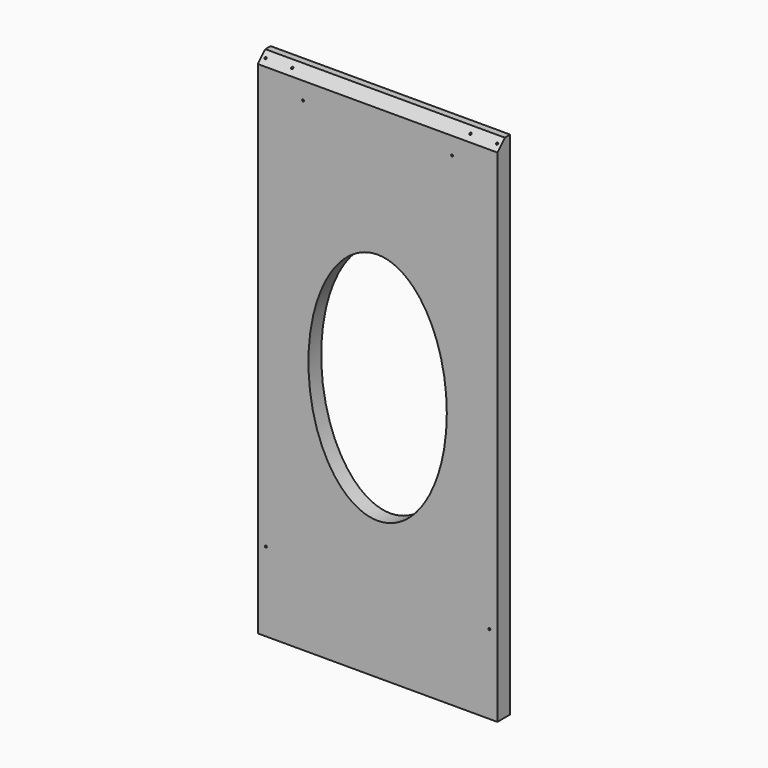
from build123d import *

# Parameters (mm, degrees)
F0_W           = 571.5
F0_H           = 1218.2094
F1_DEPTH       = 38.1
F2_SIZE2       = 22.225
F2_SIZE        = 22.225
F4_D           = 4.826
F7_D           = 4.826
F7_DEPTH       = 12.7
F7_TIP         = 1.4498766737
F7_ON_F6_D     = 4.826
F7_ON_F6_DEPTH = 12.7
F7_ON_F6_TIP   = 1.4498766737
F9_D           = 4.826
F9_DEPTH       = 12.7
F9_TIP         = 1.4498766737


with BuildPart() as f1:
    # F0 (on Front) → F1 (new body)
    with BuildSketch(Plane.XZ):
        with Locations((285.75, 609.1047)):
            Rectangle(F0_W, F0_H)
        with BuildLine():
            add(Edge.make_bspline(
                [(285.75, 888.5047), (-0.2115883296, 888.5047), (142.7692058352, 469.4047), (285.75, 50.3047), (428.7307941648, 469.4047), (571.7115883296, 888.5047), (285.75, 888.5047)],
                knots=[0, 0, 0, 2.0943951024, 2.0943951024, 4.1887902048, 4.1887902048, 6.2831853072, 6.2831853072, 6.2831853072], degree=2, weights=[1, 0.5, 1, 0.5, 1, 0.5, 1]))
        make_face(mode=Mode.SUBTRACT)
    extrude(amount=F1_DEPTH)

    # F2
    f2_edges = [f1.edges().sort_by_distance(p)[0] for p in [
        (285.75, -38.1, 1218.2094),
    ]]
    chamfer(f2_edges, length=F2_SIZE, length2=F2_SIZE2)

    # F4 (through all)
    with Locations(Plane(origin=(0, 0, 0), x_dir=(-1, 0, 0), z_dir=(0, 1, 0))):
        with Locations((-463.55, 1154.7094), (-107.95, 1154.7094)):
            Hole(F4_D / 2)

    # F7
    with Locations(Plane(origin=(0, -617.0422, 617.0422), x_dir=(1, 0, 0), z_dir=(0, -0.7071067812, 0.7071067812))):
        with Locations((9.525, 834.463359282), (73.025, 834.463359282), (498.475, 834.463359282), (561.975, 834.463359282)):
            Hole(F7_D / 2, depth=F7_DEPTH)
            with Locations((0, 0, -(F7_DEPTH + F7_TIP / 2))):  # 118° drill point
                Cone(0, F7_D / 2, F7_TIP, mode=Mode.SUBTRACT)

    # F7 on F6
    with Locations(Plane.XZ.offset(38.1)):
        with Locations((19.05, 188.722), (552.45, 188.722)):
            Hole(F7_ON_F6_D / 2, depth=F7_ON_F6_DEPTH)
            with Locations((0, 0, -(F7_ON_F6_DEPTH + F7_ON_F6_TIP / 2))):  # 118° drill point
                Cone(0, F7_ON_F6_D / 2, F7_ON_F6_TIP, mode=Mode.SUBTRACT)

    # F9
    with Locations(Plane(origin=(0, 0, 0), x_dir=(1, 0, 0), z_dir=(0, 0, -1))):
        with Locations((27.3812, 19.05), (544.1188, 19.05)):
            Hole(F9_D / 2, depth=F9_DEPTH)
            with Locations((0, 0, -(F9_DEPTH + F9_TIP / 2))):  # 118° drill point
                Cone(0, F9_D / 2, F9_TIP, mode=Mode.SUBTRACT)


solid = f1.part
